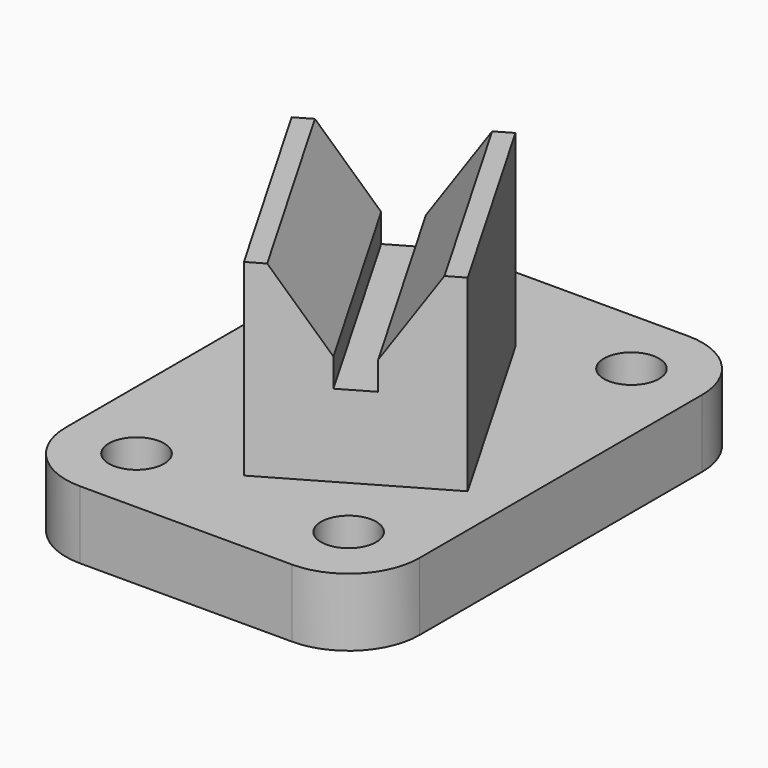
from build123d import *

# Parameters (mm, degrees)
F0_R     = 4.953
F1_DEPTH = 12.192
F3_DEPTH = 33.782
F5_DEPTH = 44.45


with BuildPart() as f1:
    # F0 (on Top) → F1 (new body)
    with BuildSketch(Plane.XY):
        with BuildLine():
            Line((50.8, 0), (12.7, 0))
            ThreePointArc((12.7, 0), (3.7197438789, -3.7197438789), (0, -12.7))
            Line((0, -12.7), (0, -76.2))
            ThreePointArc((0, -76.2), (3.7197438789, -85.1802561211), (12.7, -88.9))
            Line((12.7, -88.9), (50.8, -88.9))
            ThreePointArc((50.8, -88.9), (59.7802561211, -85.1802561211), (63.5, -76.2))
            Line((63.5, -76.2), (63.5, -12.7))
            ThreePointArc((63.5, -12.7), (59.7802561211, -3.7197438789), (50.8, 0))
        make_face()
        with Locations((12.7, -76.2)):
            Circle(F0_R, mode=Mode.SUBTRACT)
        with Locations((50.8, -76.2)):
            Circle(F0_R, mode=Mode.SUBTRACT)
        with Locations((12.7, -12.7)):
            Circle(F0_R, mode=Mode.SUBTRACT)
        with Locations((50.8, -12.7)):
            Circle(F0_R, mode=Mode.SUBTRACT)
    extrude(amount=F1_DEPTH)

    # F2 (on face) → F3 (join)
    with BuildSketch(Plane.XY.offset(12.192)):
        Polygon((6.4126934298, -33.5141708018), (28.6376934298, -72.009), (56.134, -56.134), (33.909, -17.6391708018), align=None)
    extrude(amount=F3_DEPTH)

    # F4 (on face) → F5 (cut)
    with BuildSketch(Plane(origin=(38.340235008, -66.407235008, 0), x_dir=(0.8660254038, 0.5, 0), z_dir=(0.5, -0.8660254038, 0))):
        Polygon((17.244470016, 45.974), (-7.901529984, 45.974), (1.496470016, 32.004), (1.496470016, 26.924), (7.846470016, 26.924), (7.846470016, 32.004), align=None)
    extrude(amount=-F5_DEPTH, mode=Mode.SUBTRACT)


solid = f1.part
